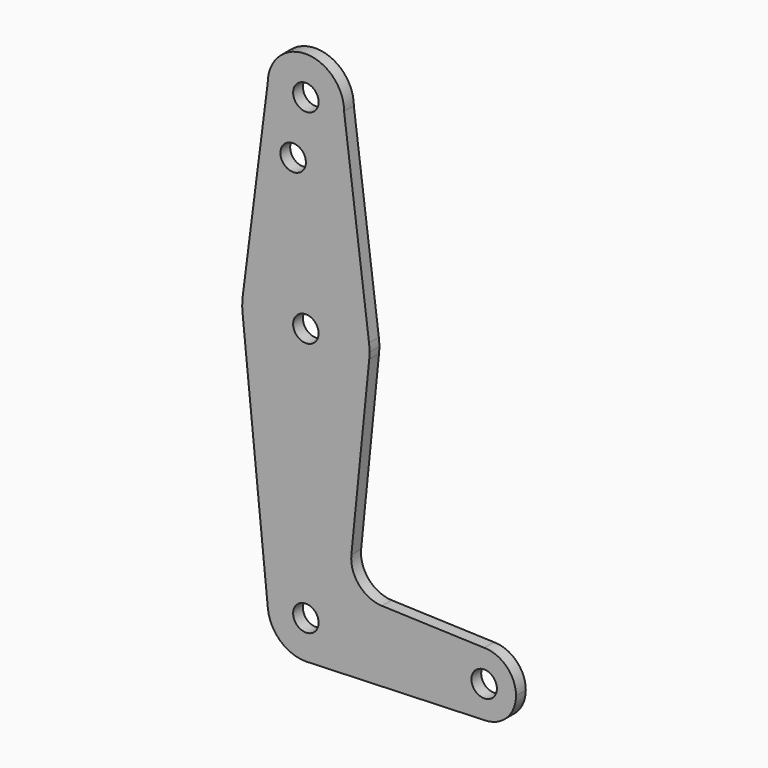
from build123d import *

# Parameters (mm, degrees)
F0_R     = 3.175
F1_DEPTH = 3.048


with BuildPart() as f1:
    # F0 (on Front) → F1 (new body)
    with BuildSketch(Plane.XZ):
        with BuildLine():
            ThreePointArc((-9.525, 114.3), (0, 104.775), (9.525, 114.3))
            ThreePointArc((9.525, 114.3), (0, 123.825), (-9.525, 114.3))
        make_face()
        with Locations((0, 114.3)):
            Circle(F0_R, mode=Mode.SUBTRACT)
        with BuildLine():
            Line((15.747457, 65.508289), (9.525, 114.3))
            ThreePointArc((9.525, 114.3), (0, 104.775), (-9.525, 114.3))
            Line((-9.525, 114.3), (-15.747457, 65.508289))
            ThreePointArc((-15.747457, 65.508289), (0, 79.375), (15.747457, 65.508289))
        make_face()
        with Locations((-3.175, 100.0252)):
            Circle(F0_R, mode=Mode.SUBTRACT)
        with BuildLine():
            ThreePointArc((15.875, 63.5), (15.843082, 64.506168), (15.747457, 65.508289))
            ThreePointArc((15.747457, 65.508289), (0, 79.375), (-15.747457, 65.508289))
            ThreePointArc((-15.747457, 65.508289), (-15.873588, 63.711757), (-15.795426, 61.9125))
            ThreePointArc((-15.795426, 61.9125), (0, 47.625), (15.795426, 61.9125))
            ThreePointArc((15.795426, 61.9125), (15.855094, 62.705253), (15.875, 63.5))
        make_face()
        with Locations((0, 63.5)):
            Circle(F0_R, mode=Mode.SUBTRACT)
        with BuildLine():
            ThreePointArc((15.795426, 61.9125), (0, 47.625), (-15.795426, 61.9125))
            Line((-15.795426, 61.9125), (-9.477255, -0.9525))
            ThreePointArc((-9.477255, -0.9525), (-0.476848, 9.513056), (9.525, 0))
            ThreePointArc((9.525, 0), (6.970557, -6.491299), (0.677344, -9.500886))
            Line((0.677344, -9.500886), (44.732405, -7.932475))
            ThreePointArc((44.732405, -7.932475), (36.513756, -0.141225), (44.45, 7.9375))
            Line((44.45, 7.9375), (18.967215, 8.847599))
            ThreePointArc((18.967215, 8.847599), (13.260694, 11.565663), (11.340621, 17.587754))
            Line((11.340621, 17.587754), (15.795426, 61.9125))
        make_face()
        with BuildLine():
            ThreePointArc((9.525, 0), (-0.476848, 9.513056), (-9.477255, -0.9525))
            ThreePointArc((-9.477255, -0.9525), (-6.389564, -7.063929), (0, -9.525))
            Line((0, -9.525), (0.677344, -9.500886))
            ThreePointArc((0.677344, -9.500886), (6.970557, -6.491299), (9.525, 0))
        make_face()
        Circle(F0_R, mode=Mode.SUBTRACT)
        with BuildLine():
            Line((0.677344, -9.500886), (0, -9.525))
            ThreePointArc((0, -9.525), (0.338886, -9.51897), (0.677344, -9.500886))
        make_face()
        with BuildLine():
            ThreePointArc((52.3875, 0), (50.06266, 5.61266), (44.45, 7.9375))
            ThreePointArc((44.45, 7.9375), (36.513756, -0.141225), (44.732405, -7.932475))
            ThreePointArc((44.732405, -7.932475), (50.161633, -5.51191), (52.3875, 0))
        make_face()
        with Locations((44.45, 0)):
            Circle(F0_R, mode=Mode.SUBTRACT)
    extrude(amount=F1_DEPTH)


solid = f1.part
